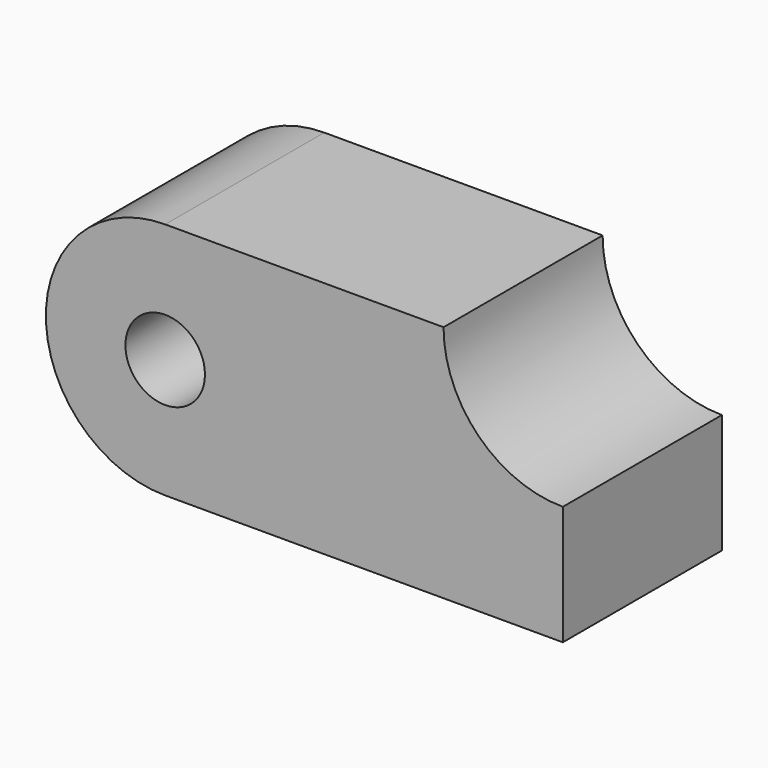
from build123d import *

# Parameters (mm, degrees)
F0_R     = 5
F1_DEPTH = 25


with BuildPart() as f1:
    # F0 (on Front) → F1 (new body)
    with BuildSketch(Plane.XZ):
        with BuildLine():
            Line((35, 15), (0, 15))
            ThreePointArc((0, 15), (-15, 0), (0, -15))
            Line((0, -15), (50, -15))
            Line((50, -15), (50, 0))
            ThreePointArc((50, 0), (39.393398, 4.393398), (35, 15))
        make_face()
        Circle(F0_R, mode=Mode.SUBTRACT)
    extrude(amount=F1_DEPTH)


solid = f1.part
